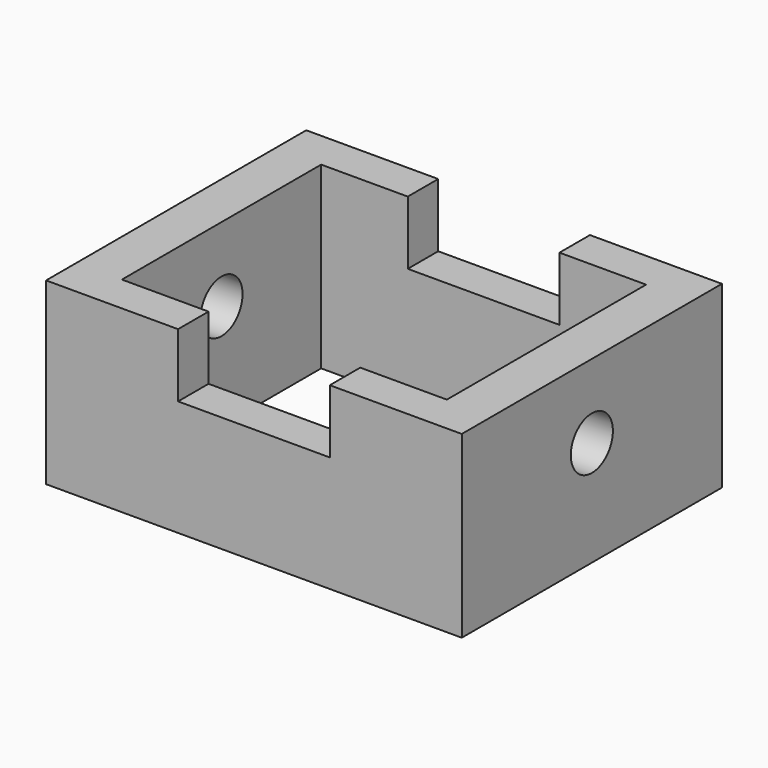
from build123d import *

# Parameters (mm, degrees)
F0_W     = 151.84383
F0_H     = 118.781612
F0_W_2   = 118.697516
F0_H_2   = 90.967916
F1_DEPTH = 50.8
F2_DEPTH = 65.532
F3_W     = 55.418182
F3_H     = 23.22946
F4_DEPTH = 118.782611
F5_R     = 9.604265
F6_DEPTH = 151.844831


with BuildPart() as f1:
    # F0 (on Top) → F1 (new body)
    with BuildSketch(Plane.XY):
        Rectangle(F0_W, F0_H)
        Rectangle(F0_W_2, F0_H_2, mode=Mode.SUBTRACT)
    extrude(amount=F1_DEPTH)

    # F0 (on Top) → F2 (join)
    with BuildSketch(Plane.XY):
        Rectangle(F0_W, F0_H)
        Rectangle(F0_W_2, F0_H_2, mode=Mode.SUBTRACT)
    extrude(amount=F2_DEPTH)

    # F3 (on face) → F4 (cut, through all)
    with BuildSketch(Plane.XZ.offset(59.390806)):
        with Locations((0, 53.91727)):
            Rectangle(F3_W, F3_H)
    extrude(amount=-F4_DEPTH, mode=Mode.SUBTRACT)

    # F5 (on face) → F6 (cut, through all)
    with BuildSketch(Plane.YZ.offset(75.921915)):
        with Locations((0, 38.446363)):
            Circle(F5_R)
    extrude(amount=-F6_DEPTH, mode=Mode.SUBTRACT)


solid = f1.part
